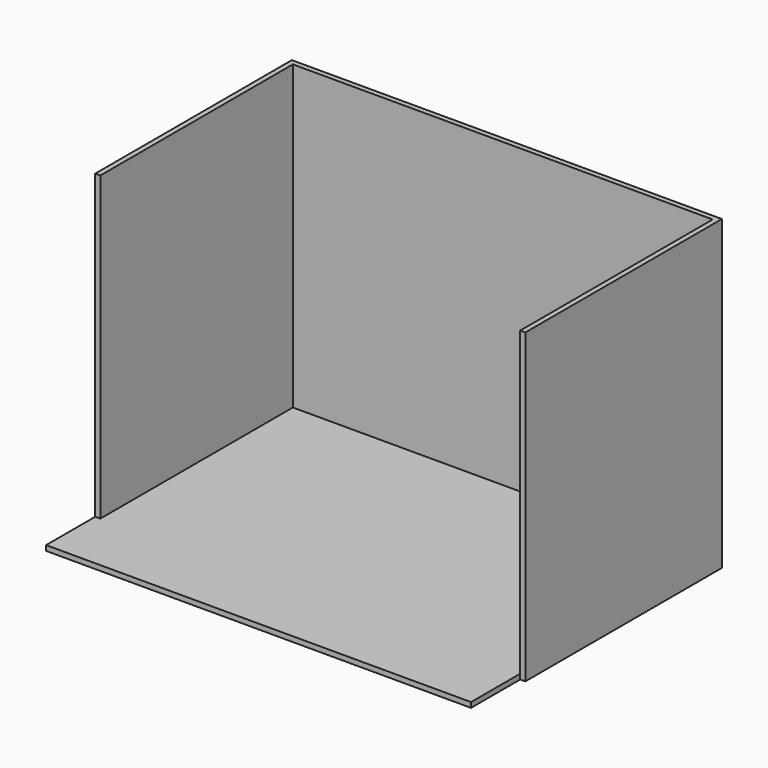
from build123d import *

# Parameters (mm, degrees)
F0_W     = 533.4
F0_H     = 304.8
F1_DEPTH = 381
F2_T     = -6.35
F3_W     = 527.05
F3_H     = 6.35
F4_DEPTH = 76.2


with BuildPart() as f1:
    # F0 (on Top) → F1 (new body)
    with BuildSketch(Plane.XY):
        with Locations((219.900687, 92.017783)):
            Rectangle(F0_W, F0_H)
    extrude(amount=F1_DEPTH)

    # F2
    f2_openings = [f1.faces().sort_by_distance(p)[0] for p in [
        (219.900687, 92.017783, 381),
        (219.900687, -60.382217, 190.5),
    ]]
    offset(amount=F2_T, openings=f2_openings)

    # F3 (on face) → F4 (join)
    with BuildSketch(Plane.XZ.offset(60.382217)):
        with Locations((216.725687, 3.175)):
            Rectangle(F3_W, F3_H)
    extrude(amount=F4_DEPTH)


solid = f1.part
